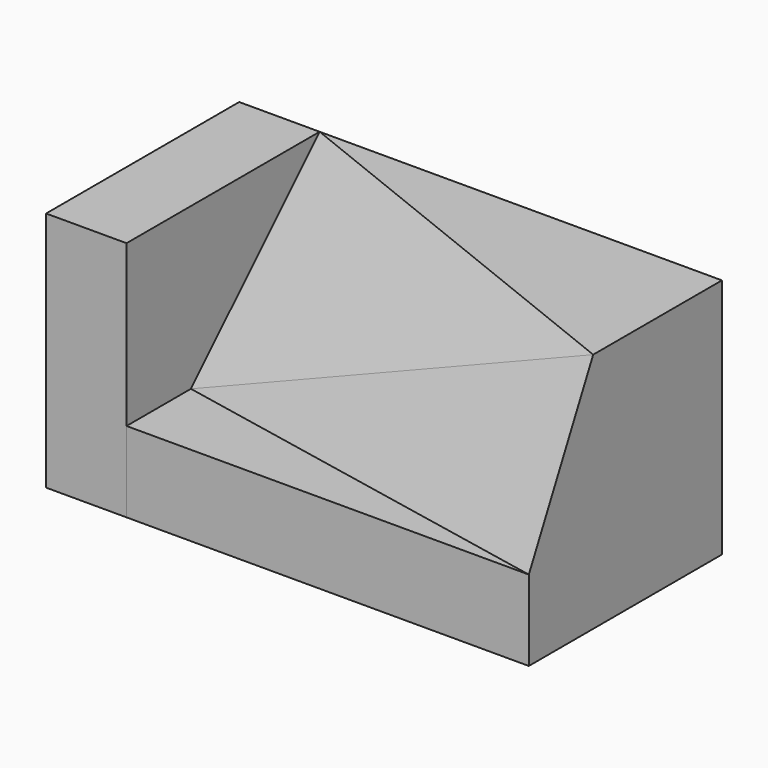
from build123d import *

# Parameters (mm, degrees)
F0_W      = 5
F0_H      = 3
F1_DEPTH  = 3
F3_DEPTH  = 2
F6_W      = 1.736291251
F6_H      = 2.2360679775
F7_DEPTH  = 25
F10_DEPTH = 25
F11_W     = 1
F11_H     = 3
F12_DEPTH = 3


with BuildPart() as f1:
    # F0 (on Top) → F1 (new body)
    with BuildSketch(Plane.XY):
        with Locations((2.5, 1.5)):
            Rectangle(F0_W, F0_H)
    extrude(amount=F1_DEPTH)

    # F2 (on face) → F3 (cut)
    with BuildSketch(Plane.XY.offset(3)):
        Polygon((0, 1), (0, 0), (5, 0), align=None)
    extrude(amount=-F3_DEPTH, mode=Mode.SUBTRACT)

    # F6 (on 3pt) → F7 (cut)
    with BuildSketch(Plane(origin=(0.0775193798, 0.3875968992, -0.1937984496), x_dir=(0.9843740387, -0.1574998462, 0.0787499231), z_dir=(-0.1760901813, -0.8804509063, 0.4402254532))):
        Polygon((5.0006201166, 3.1304951685), (-0.0787499231, 1.3416407865), (5.0006201166, 0.894427191), align=None)
        with Locations((5.8687657421, 2.0124611797)):
            Rectangle(F6_W, F6_H)
    extrude(amount=F7_DEPTH, mode=Mode.SUBTRACT)

    # F9 (on 3pt) → F10 (cut)
    with BuildSketch(Plane(origin=(0, 0, 0), x_dir=(-0.9622504486, 0.1924500897, -0.1924500897), z_dir=(0.272165527, 0.6804138174, -0.6804138174))):
        Polygon((0, 1.4142135624), (0, 4.2426406871), (-5.1961524227, 2.8284271247), align=None)
        Polygon((-5.1961524227, 1.5010309871), (0, 1.4142135624), (-5.1961524227, 2.8284271247), align=None)
    extrude(amount=-F10_DEPTH, mode=Mode.SUBTRACT)


with BuildPart() as f12:
    # F11 (on Front) → F12 (new body)
    with BuildSketch(Plane.XZ):
        with Locations((-0.5, 1.5)):
            Rectangle(F11_W, F11_H)
    extrude(amount=-F12_DEPTH)


solid = Compound([f1.part, f12.part])
